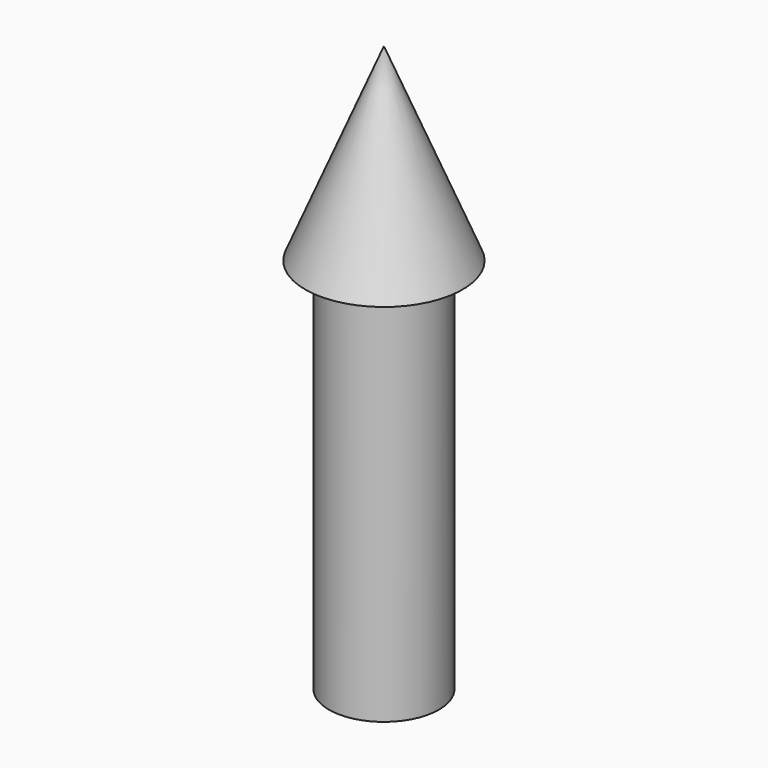
from build123d import *

# Parameters (mm, degrees)
F0_R     = 175
F1_DEPTH = 1200


with BuildPart() as f1:
    # F0 (on Top) → F1 (new body)
    with BuildSketch(Plane.XY):
        Circle(F0_R)
    extrude(amount=F1_DEPTH)

    # F2 (on Front) → F3 (revolve)
    with BuildSketch(Plane.XZ):
        Polygon((-250, 1200), (0, 1200), (0, 1800), align=None)
    revolve(axis=Axis((0, 0, 1500), (0, 0, 1)))


solid = f1.part
